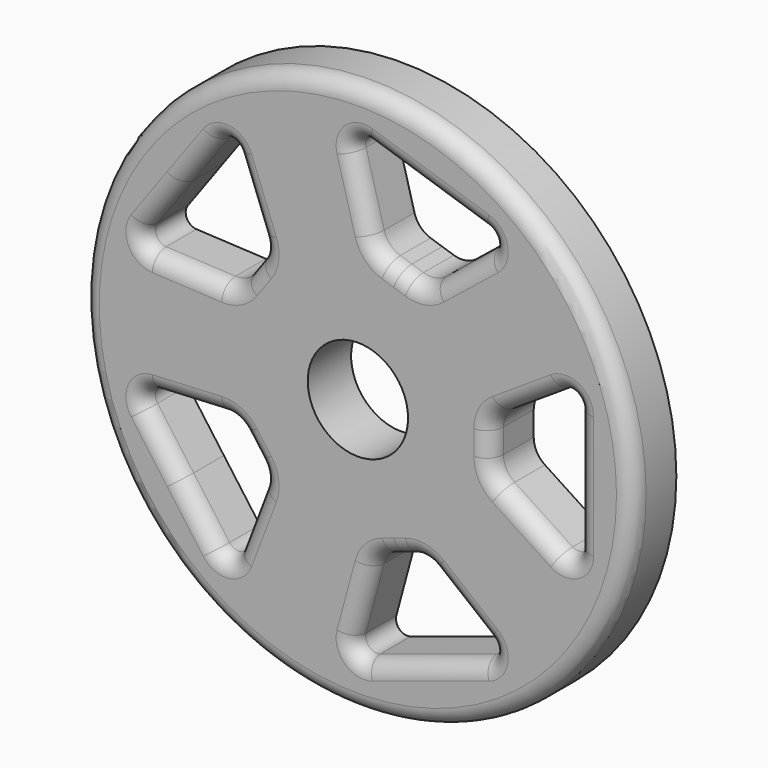
from build123d import *

# Parameters (mm, degrees)
F0_R     = 42.5
F0_R_2   = 7.75
F1_DEPTH = 8.382
F2_R     = 2.54


with BuildPart() as f1:
    # F0 (on Front) → F1 (new body)
    with BuildSketch(Plane.XZ):
        Circle(F0_R)
        with BuildLine():
            ThreePointArc((-15.4514332848, -13.5451611678), (-14.7570241285, -15.2824731939), (-14.9733554757, -17.1408751689))
            Line((-14.9733554757, -17.1408751689), (-18.7906910156, -27.1621424825))
            ThreePointArc((-18.7906910156, -27.1621424825), (-20.1988906914, -28.276677686), (-21.8493914782, -27.5688202147))
            Line((-21.8493914782, -27.5688202147), (-27.4103654367, -19.9147961979))
            Line((-27.4103654367, -19.9147961979), (-32.9713393953, -12.2607721812))
            ThreePointArc((-32.9713393953, -12.2607721812), (-33.1345190636, -10.4723126646), (-31.6393754644, -9.4774455054))
            Line((-31.6393754644, -9.4774455054), (-20.9289623292, -8.9436855703))
            ThreePointArc((-20.9289623292, -8.9436855703), (-19.0946669583, -9.3122200255), (-17.6569692654, -10.5095013192))
            Line((-17.6569692654, -10.5095013192), (-16.5542012751, -12.0273312435))
            Line((-16.5542012751, -12.0273312435), (-15.4514332848, -13.5451611678))
        make_face(mode=Mode.SUBTRACT)
        with BuildLine():
            ThreePointArc((8.1074583205, -18.880871304), (9.9743244741, -18.7573078915), (11.6749197196, -19.5373290217))
            Line((11.6749197196, -19.5373290217), (20.0260897446, -26.2645727668))
            ThreePointArc((20.0260897446, -26.2645727668), (20.6509180813, -27.9482605634), (19.4676728283, -29.2992401036))
            Line((19.4676728283, -29.2992401036), (10.4698279528, -32.2228171273))
            Line((10.4698279528, -32.2228171273), (1.4719830773, -35.146394151))
            ThreePointArc((1.4719830773, -35.146394151), (-0.2793682908, -34.7489228535), (-0.7635184042, -33.0195259313))
            Line((-0.7635184042, -33.0195259313), (2.038545407, -22.6683768361))
            ThreePointArc((2.038545407, -22.6683768361), (2.9558709444, -21.0377416804), (4.5388261405, -20.0403901879))
            Line((4.5388261405, -20.0403901879), (6.3231422305, -19.4606307459))
            Line((6.3231422305, -19.4606307459), (8.1074583205, -18.880871304))
        make_face(mode=Mode.SUBTRACT)
        with BuildLine():
            ThreePointArc((-17.6569692654, 10.5095013192), (-19.0946669583, 9.3122200255), (-20.9289623292, 8.9436855703))
            Line((-20.9289623292, 8.9436855703), (-31.6393754644, 9.4774455054))
            ThreePointArc((-31.6393754644, 9.4774455054), (-33.1345190636, 10.4723126646), (-32.9713393953, 12.2607721812))
            Line((-32.9713393953, 12.2607721812), (-27.4103654367, 19.9147961979))
            Line((-27.4103654367, 19.9147961979), (-21.8493914782, 27.5688202147))
            ThreePointArc((-21.8493914782, 27.5688202147), (-20.1988906914, 28.276677686), (-18.7906910156, 27.1621424825))
            Line((-18.7906910156, 27.1621424825), (-14.9733554757, 17.1408751689))
            ThreePointArc((-14.9733554757, 17.1408751689), (-14.7570241285, 15.2824731939), (-15.4514332848, 13.5451611678))
            Line((-15.4514332848, 13.5451611678), (-16.5542012751, 12.0273312435))
            Line((-16.5542012751, 12.0273312435), (-17.6569692654, 10.5095013192))
        make_face(mode=Mode.SUBTRACT)
        Circle(F0_R_2, mode=Mode.SUBTRACT)
        with BuildLine():
            Line((20.4621180892, 0), (20.4621180892, 1.8761409647))
            ThreePointArc((20.4621180892, 1.8761409647), (20.9214956683, 3.6898193795), (22.1888526784, 5.0661417842))
            Line((22.1888526784, 5.0661417842), (31.1674951396, 10.9297438126))
            ThreePointArc((31.1674951396, 10.9297438126), (32.9618599645, 11.0037027314), (33.8810749679, 9.4608939861))
            Line((33.8810749679, 9.4608939861), (33.8810749679, 0))
            Line((33.8810749679, 0), (33.8810749679, -9.4608939861))
            ThreePointArc((33.8810749679, -9.4608939861), (32.9618599645, -11.0037027314), (31.1674951396, -10.9297438126))
            Line((31.1674951396, -10.9297438126), (22.1888526784, -5.0661417842))
            ThreePointArc((22.1888526784, -5.0661417842), (20.9214956683, -3.6898193795), (20.4621180892, -1.8761409647))
            Line((20.4621180892, -1.8761409647), (20.4621180892, 0))
        make_face(mode=Mode.SUBTRACT)
        with BuildLine():
            ThreePointArc((4.5388261405, 20.0403901879), (2.9558709444, 21.0377416804), (2.038545407, 22.6683768361))
            Line((2.038545407, 22.6683768361), (-0.7635184042, 33.0195259313))
            ThreePointArc((-0.7635184042, 33.0195259313), (-0.2793682908, 34.7489228535), (1.4719830773, 35.146394151))
            Line((1.4719830773, 35.146394151), (10.4698279528, 32.2228171273))
            Line((10.4698279528, 32.2228171273), (19.4676728283, 29.2992401036))
            ThreePointArc((19.4676728283, 29.2992401036), (20.6509180813, 27.9482605634), (20.0260897446, 26.2645727668))
            Line((20.0260897446, 26.2645727668), (11.6749197196, 19.5373290217))
            ThreePointArc((11.6749197196, 19.5373290217), (9.9743244741, 18.7573078915), (8.1074583205, 18.880871304))
            Line((8.1074583205, 18.880871304), (6.3231422305, 19.4606307459))
            Line((6.3231422305, 19.4606307459), (4.5388261405, 20.0403901879))
        make_face(mode=Mode.SUBTRACT)
    extrude(amount=F1_DEPTH)

    # F2
    f2_edges = [f1.edges().sort_by_distance(p)[0] for p in [
        (26.678174, -8.382, 7.997943),
        (6.323142, -8.382, 19.460631),
        (-16.554201, -8.382, 12.027331),
        (-16.554201, -8.382, -12.027331),
        (6.323142, -8.382, -19.460631),
        (-42.5, -8.382, 0),
    ]]
    fillet(f2_edges, radius=F2_R)


solid = f1.part
